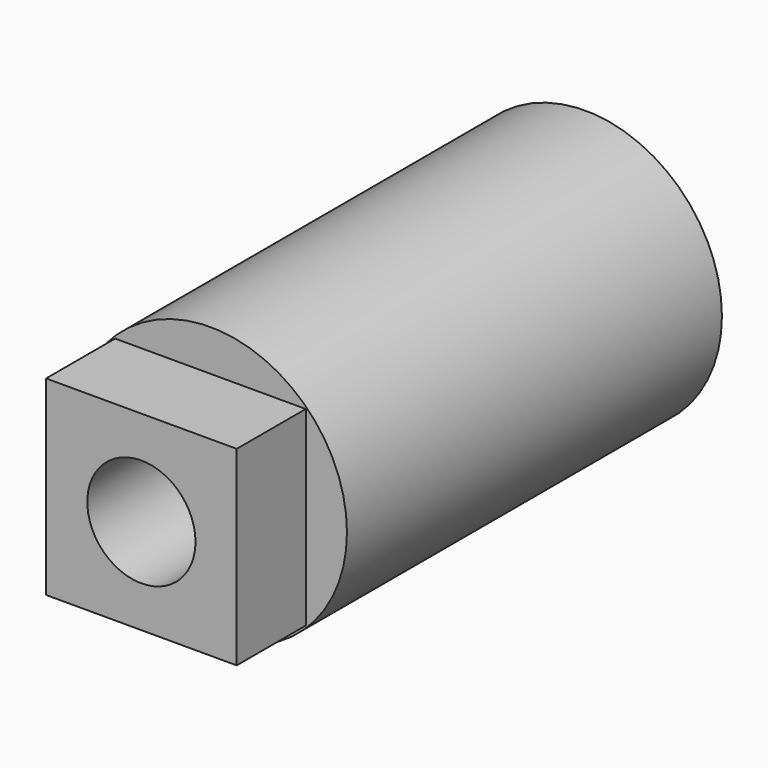
from build123d import *

# Parameters (mm, degrees)
F0_R     = 12.4968
F1_DEPTH = 42.9006
F2_W     = 17.4498
F2_H     = 17.4498
F3_DEPTH = 7.8994
F4_R     = 4.953
F5_DEPTH = 50.8


with BuildPart() as f1:
    # F0 (on Front) → F1 (new body)
    with BuildSketch(Plane.XZ):
        Circle(F0_R)
    extrude(amount=-F1_DEPTH)

    # F2 (on face) → F3 (join)
    with BuildSketch(Plane.XZ):
        Rectangle(F2_W, F2_H)
    extrude(amount=F3_DEPTH)

    # F4 (on face) → F5 (cut)
    with BuildSketch(Plane.XZ.offset(7.8994)):
        Circle(F4_R)
    extrude(amount=-F5_DEPTH, mode=Mode.SUBTRACT)


solid = f1.part
